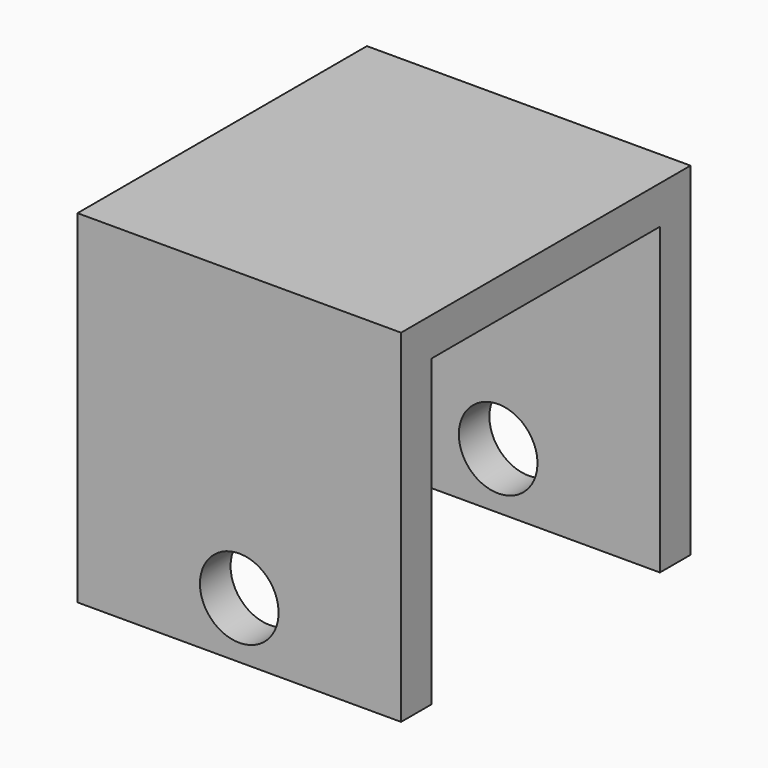
from build123d import *

# Parameters (mm, degrees)
F1_W     = 25.4
F1_H     = 3
F3_R     = 3.0860112986
F4_DEPTH = 48.3815874904


with BuildPart() as f2:
    # F2: sweep along a path in F0
    with BuildLine(Plane.YZ) as f2_path:
        Line((0, 0), (0, 25.4))
        Line((0, 25.4), (25.4, 25.4))
        Line((25.4, 25.4), (25.4, 0))
    # F1 (on Top) → F2 (sweep)
    with BuildSketch(Plane.XY):
        Rectangle(F1_W, F1_H)
    sweep(path=f2_path.line, transition=Transition.RIGHT)

    # F3 (on face) → F4 (cut)
    with BuildSketch(Plane(origin=(0, 26.9, 0), x_dir=(-1, 0, 0), z_dir=(0, 1, 0))):
        with Locations((0, 4.4242767617)):
            Circle(F3_R)
    extrude(amount=-F4_DEPTH, mode=Mode.SUBTRACT)


solid = f2.part
